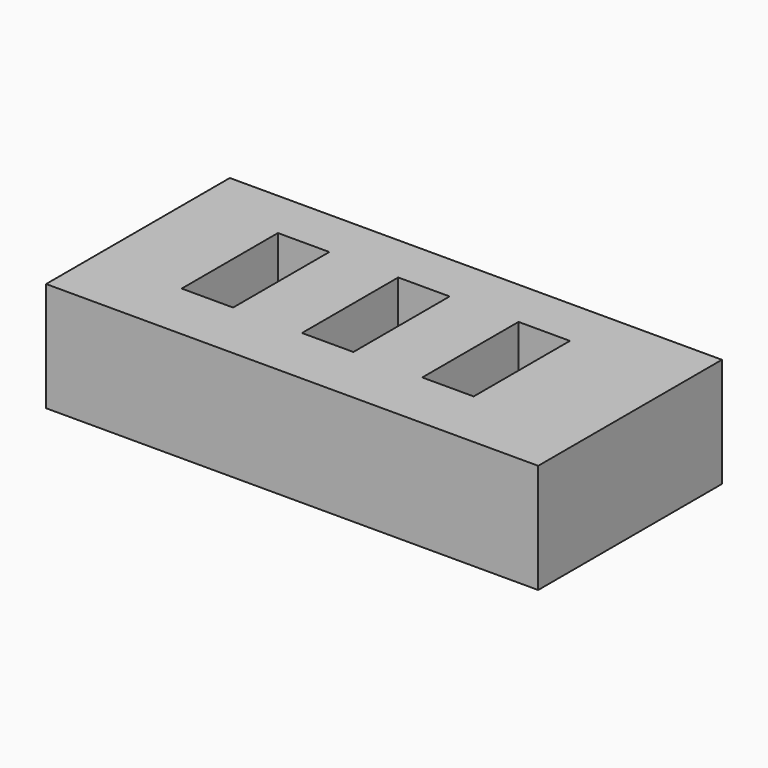
from build123d import *

# Parameters (mm, degrees)
BOX002_W     = 4.7
BOX002_H     = 11
BOX002_DEPTH = 8.5
BOX003_W     = 4.7
BOX003_H     = 11
BOX003_DEPTH = 8.5
BOX001_W     = 4.7
BOX001_H     = 11
BOX001_DEPTH = 8.5
BOX_W        = 45
BOX_H        = 21
BOX_DEPTH    = 10


with BuildPart() as cub002:
    # Box002 → Box002 (new body)
    with BuildSketch(Plane(origin=(19, 5.5, 2), x_dir=(1, 0, 0), z_dir=(0, 0, 1))):
        with Locations((2.35, 5.5)):
            Rectangle(BOX002_W, BOX002_H)
    extrude(amount=BOX002_DEPTH)


with BuildPart() as cub003:
    # Box003 → Box003 (new body)
    with BuildSketch(Plane(origin=(30, 5.5, 2), x_dir=(1, 0, 0), z_dir=(0, 0, 1))):
        with Locations((2.35, 5.5)):
            Rectangle(BOX003_W, BOX003_H)
    extrude(amount=BOX003_DEPTH)


with BuildPart() as cub001:
    # Box001 → Box001 (new body)
    with BuildSketch(Plane(origin=(8, 5.5, 2), x_dir=(1, 0, 0), z_dir=(0, 0, 1))):
        with Locations((2.35, 5.5)):
            Rectangle(BOX001_W, BOX001_H)
    extrude(amount=BOX001_DEPTH)


with BuildPart() as cut002:
    # Box → Box (new body)
    with BuildSketch(Plane.XY):
        with Locations((22.5, 10.5)):
            Rectangle(BOX_W, BOX_H)
    extrude(amount=BOX_DEPTH)

    # Cut: cut Cub001
    add(cub001.part, mode=Mode.SUBTRACT)

    # Cut001: cut Cub003
    add(cub003.part, mode=Mode.SUBTRACT)

    # Cut002: cut Cub002
    add(cub002.part, mode=Mode.SUBTRACT)


solid = cut002.part
